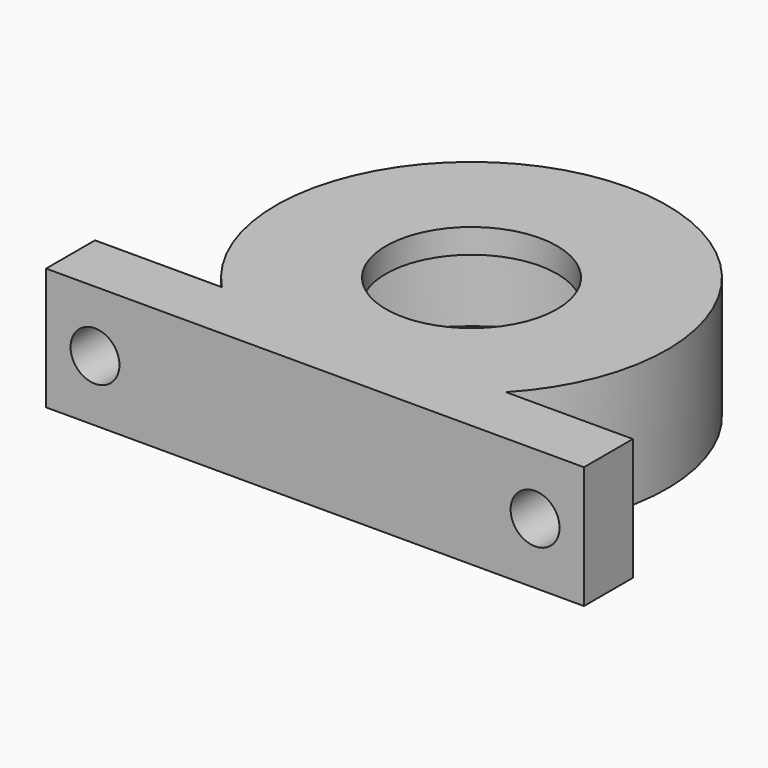
from build123d import *

# Parameters (mm, degrees)
CYLINDER032_R             = 12.5
CYLINDER032_DEPTH         = 35
CYLINDER030_R             = 16
CYLINDER030_DEPTH         = 10
CYLINDER033_R             = 7
CYLINDER033_DEPTH         = 2
CYLINDER034_R             = 14
CYLINDER034_DEPTH         = 2
CYLINDER031_R             = 2
CYLINDER031_DEPTH         = 10
CYLINDER031_ROLL_ANGLE    = 90
ARRAY004_X_COUNT          = 2
ARRAY004_X_PITCH          = 36
BOX014_W                  = 44
BOX014_H                  = 5
BOX014_DEPTH              = 10
POCKET_DEPTH              = 8
FUSION026_PLACEMENT_ANGLE = 180


with BuildPart() as cylinder032:
    # Cylinder032 → Cylinder032 (new body)
    with BuildSketch(Plane.XY):
        Circle(CYLINDER032_R)
    extrude(amount=CYLINDER032_DEPTH)


with BuildPart() as cuerpo_arandela001:
    # Cylinder030 → Cylinder030 (new body)
    with BuildSketch(Plane.XY):
        Circle(CYLINDER030_R)
    extrude(amount=CYLINDER030_DEPTH)

    # Cut004024: cut Cylinder032
    add(cylinder032.part, mode=Mode.SUBTRACT)


with BuildPart() as cylinder033:
    # Cylinder033 → Cylinder033 (new body)
    with BuildSketch(Plane.XY):
        Circle(CYLINDER033_R)
    extrude(amount=CYLINDER033_DEPTH)


with BuildPart() as tapa_arandela001:
    # Cylinder034 → Cylinder034 (new body)
    with BuildSketch(Plane.XY):
        Circle(CYLINDER034_R)
    extrude(amount=CYLINDER034_DEPTH)

    # Cut004025: cut Cylinder033
    add(cylinder033.part, mode=Mode.SUBTRACT)


with BuildPart() as array004:
    # Cylinder031 → Cylinder031 (new body)
    with BuildSketch(Plane.XY):
        Circle(CYLINDER031_R)
    extrude(amount=CYLINDER031_DEPTH)


with BuildPart() as array004_1:
    # Cylinder031 roll: moved
    add(array004.part.rotate(Axis((0, 0, 0), (1, 0, 0)), CYLINDER031_ROLL_ANGLE))


with BuildPart() as array004_2:
    # Cylinder031 placement: moved
    add(array004_1.part.moved(Location((18, 8, 5))))

    # Array004 X: Array004 ×2


with BuildPart() as array004_3:
    add(array004_2.part)
    with Locations(*[(-i * ARRAY004_X_PITCH, 0, 0) for i in range(1, ARRAY004_X_COUNT)]):
        add(array004_2.part)


with BuildPart() as porta_rodamiento_grande:
    # Box014 → Box014 (new body)
    with BuildSketch(Plane(origin=(-22, 0, 0), x_dir=(1, 0, 0), z_dir=(0, 0, 1))):
        with Locations((22, 2.5)):
            Rectangle(BOX014_W, BOX014_H)
    extrude(amount=BOX014_DEPTH)

    # Cut004026: cut Array004
    add(array004_3.part, mode=Mode.SUBTRACT)


with BuildPart() as porta_rodamiento_grande_1:
    # Cut004026 placement: moved
    add(porta_rodamiento_grande.part.moved(Location((0, 11, 0))))

    # Sketch001 → Pocket (cut)
    with BuildSketch(Plane(origin=(0, 11, 10), x_dir=(1, 0, 0), z_dir=(0, 0, 1))):
        with BuildLine():
            ThreePointArc((5.937171, 0), (0, 1.5), (-5.937171, 0))
            Line((-5.937171, 0), (5.937171, 0))
        make_face()
    extrude(amount=-POCKET_DEPTH, mode=Mode.SUBTRACT)

    # Fusion026: union cuerpo-arandela001, tapa-arandela001
    add(cuerpo_arandela001.part)
    add(tapa_arandela001.part)


with BuildPart() as porta_rodamiento_grande_2:
    # Fusion026 placement: moved
    add(porta_rodamiento_grande_1.part.moved(Location((-30, 51, 47))).rotate(Axis((-30, 51, 47), (1, 0, 0)), FUSION026_PLACEMENT_ANGLE))


solid = porta_rodamiento_grande_2.part
